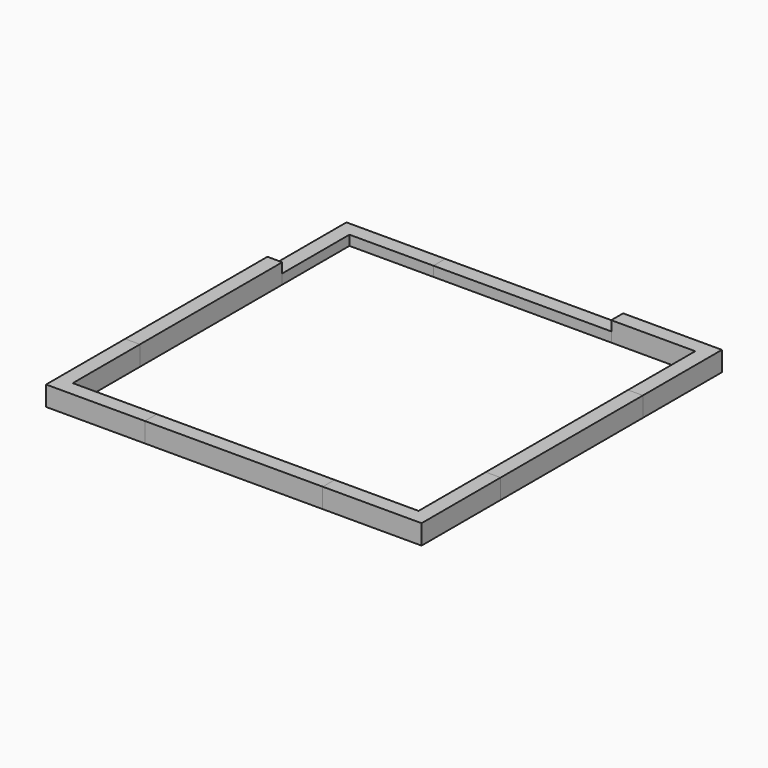
from build123d import *

# Parameters (mm, degrees)
F1_DEPTH = 10
F0_W     = 180
F0_H     = 15
F2_DEPTH = 10
F3_DEPTH = 20
F0_W_2   = 15
F0_H_2   = 180
F4_DEPTH = 20
F5_DEPTH = 20
F6_DEPTH = 20
F7_DEPTH = 20
F8_DEPTH = 20


with BuildPart() as f1:
    # F0 (on Top) → F1 (new body)
    with BuildSketch(Plane.XY):
        Polygon((-190, 90), (-175, 90), (-175, 175), (-90, 175), (-90, 190), (-190, 190), align=None)
    extrude(amount=F1_DEPTH)


with BuildPart() as f2:
    # F0 (on Top) → F2 (new body)
    with BuildSketch(Plane.XY):
        with Locations((0, 182.5)):
            Rectangle(F0_W, F0_H)
    extrude(amount=F2_DEPTH)


with BuildPart() as f3:
    # F0 (on Top) → F3 (new body)
    with BuildSketch(Plane.XY):
        Polygon((175, 175), (175, 90), (190, 90), (190, 190), (90, 190), (90, 175), align=None)
    extrude(amount=F3_DEPTH)


with BuildPart() as f4:
    # F0 (on Top) → F4 (new body)
    with BuildSketch(Plane.XY):
        with Locations((-182.5, 0)):
            Rectangle(F0_W_2, F0_H_2)
    extrude(amount=F4_DEPTH)


with BuildPart() as f5:
    # F0 (on Top) → F5 (new body)
    with BuildSketch(Plane.XY):
        Polygon((-90, -190), (-90, -175), (-175, -175), (-175, -90), (-190, -90), (-190, -190), align=None)
    extrude(amount=F5_DEPTH)


with BuildPart() as f6:
    # F0 (on Top) → F6 (new body)
    with BuildSketch(Plane.XY):
        with Locations((0, -182.5)):
            Rectangle(F0_W, F0_H)
    extrude(amount=F6_DEPTH)


with BuildPart() as f7:
    # F0 (on Top) → F7 (new body)
    with BuildSketch(Plane.XY):
        Polygon((175, -90), (175, -175), (90, -175), (90, -190), (190, -190), (190, -90), align=None)
    extrude(amount=F7_DEPTH)


with BuildPart() as f8:
    # F0 (on Top) → F8 (new body)
    with BuildSketch(Plane.XY):
        with Locations((182.5, 0)):
            Rectangle(F0_W_2, F0_H_2)
    extrude(amount=F8_DEPTH)


solid = Compound([f1.part, f2.part, f3.part, f4.part, f5.part, f6.part, f7.part, f8.part])
